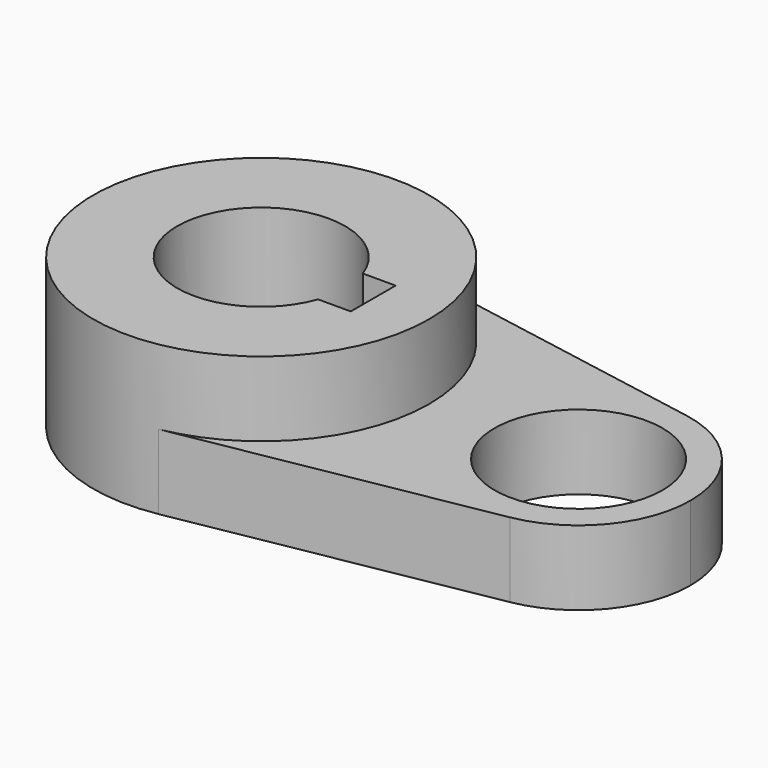
from build123d import *

# Parameters (mm, degrees)
F0_R     = 14.2875
F1_DEPTH = 12.7
F2_DEPTH = 25.4


with BuildPart() as f1:
    # F0 (on Top) → F1 (new body)
    with BuildSketch(Plane.XY):
        with BuildLine():
            ThreePointArc((5.0426470588, -28.1265414802), (21.9160245563, -18.3362616868), (28.575, 0))
            ThreePointArc((28.575, 0), (21.9160245563, 18.3362616868), (5.0426470588, 28.1265414802))
            ThreePointArc((5.0426470588, 28.1265414802), (-28.575, 0), (5.0426470588, -28.1265414802))
        make_face()
        with BuildLine():
            ThreePointArc((-13.4703841816, 4.7625), (0, 14.2875), (13.4703841816, 4.7625))
            Line((13.4703841816, 4.7625), (19.05, 4.7625))
            Line((19.05, 4.7625), (19.05, -4.7625))
            Line((19.05, -4.7625), (13.4703841816, -4.7625))
            ThreePointArc((13.4703841816, -4.7625), (0, -14.2875), (-13.4703841816, -4.7625))
            Line((-13.4703841816, -4.7625), (-19.05, -4.7625))
            Line((-19.05, -4.7625), (-19.05, 4.7625))
            Line((-19.05, 4.7625), (-13.4703841816, 4.7625))
        make_face(mode=Mode.SUBTRACT)
        with BuildLine():
            ThreePointArc((73.025, 0), (68.5856830375, 12.2241744579), (57.3367647059, 18.7510276535))
            ThreePointArc((57.3367647059, 18.7510276535), (34.925, 0), (57.3367647059, -18.7510276535))
            ThreePointArc((57.3367647059, -18.7510276535), (68.5856830375, -12.2241744579), (73.025, 0))
        make_face()
        with Locations((53.975, 0)):
            Circle(F0_R, mode=Mode.SUBTRACT)
        with BuildLine():
            ThreePointArc((5.0426470588, 28.1265414802), (21.9160245563, 18.3362616868), (28.575, 0))
            ThreePointArc((28.575, 0), (21.9160245563, -18.3362616868), (5.0426470588, -28.1265414802))
            Line((5.0426470588, -28.1265414802), (57.3367647059, -18.7510276535))
            ThreePointArc((57.3367647059, -18.7510276535), (34.925, 0), (57.3367647059, 18.7510276535))
            Line((57.3367647059, 18.7510276535), (5.0426470588, 28.1265414802))
        make_face()
        with BuildLine():
            ThreePointArc((-13.4703841816, -4.7625), (-14.2875, 0), (-13.4703841816, 4.7625))
            Line((-13.4703841816, 4.7625), (-19.05, 4.7625))
            Line((-19.05, 4.7625), (-19.05, -4.7625))
            Line((-19.05, -4.7625), (-13.4703841816, -4.7625))
        make_face()
    extrude(amount=F1_DEPTH)

    # F0 (on Top) → F2 (join)
    with BuildSketch(Plane.XY):
        with BuildLine():
            ThreePointArc((5.0426470588, -28.1265414802), (21.9160245563, -18.3362616868), (28.575, 0))
            ThreePointArc((28.575, 0), (21.9160245563, 18.3362616868), (5.0426470588, 28.1265414802))
            ThreePointArc((5.0426470588, 28.1265414802), (-28.575, 0), (5.0426470588, -28.1265414802))
        make_face()
        with BuildLine():
            ThreePointArc((-13.4703841816, 4.7625), (0, 14.2875), (13.4703841816, 4.7625))
            Line((13.4703841816, 4.7625), (19.05, 4.7625))
            Line((19.05, 4.7625), (19.05, -4.7625))
            Line((19.05, -4.7625), (13.4703841816, -4.7625))
            ThreePointArc((13.4703841816, -4.7625), (0, -14.2875), (-13.4703841816, -4.7625))
            Line((-13.4703841816, -4.7625), (-19.05, -4.7625))
            Line((-19.05, -4.7625), (-19.05, 4.7625))
            Line((-19.05, 4.7625), (-13.4703841816, 4.7625))
        make_face(mode=Mode.SUBTRACT)
        with BuildLine():
            ThreePointArc((-13.4703841816, -4.7625), (-14.2875, 0), (-13.4703841816, 4.7625))
            Line((-13.4703841816, 4.7625), (-19.05, 4.7625))
            Line((-19.05, 4.7625), (-19.05, -4.7625))
            Line((-19.05, -4.7625), (-13.4703841816, -4.7625))
        make_face()
    extrude(amount=F2_DEPTH)


solid = f1.part
